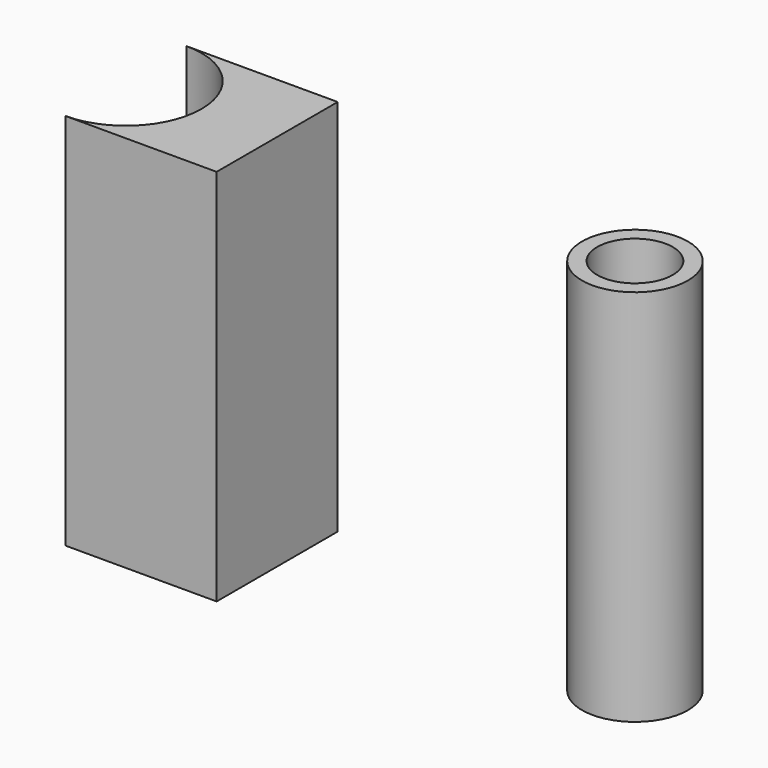
from build123d import *

# Parameters (mm, degrees)
F1_DEPTH = 50
F0_R     = 7
F2_DEPTH = 50
F3_T     = -2


with BuildPart() as f1:
    # F0 (on Top) → F1 (new body)
    with BuildSketch(Plane.XY):
        with BuildLine():
            Line((0.951087, 1.574388), (-19.048913, 1.574388))
            ThreePointArc((-19.048913, 1.574388), (-9.048913, -8.425612), (-19.048913, -18.425612))
            Line((-19.048913, -18.425612), (0.951087, -18.425612))
            Line((0.951087, -18.425612), (0.951087, 1.574388))
        make_face()
    extrude(amount=F1_DEPTH)


with BuildPart() as f2:
    # F0 (on Top) → F2 (new body)
    with BuildSketch(Plane.XY):
        with Locations((47.119565, -7.012567)):
            Circle(F0_R)
    extrude(amount=F2_DEPTH)

    # F3
    f3_openings = [f2.faces().sort_by_distance(p)[0] for p in [
        (47.119565, -7.012567, 50),
    ]]
    offset(amount=F3_T, openings=f3_openings)


solid = Compound([f1.part, f2.part])
